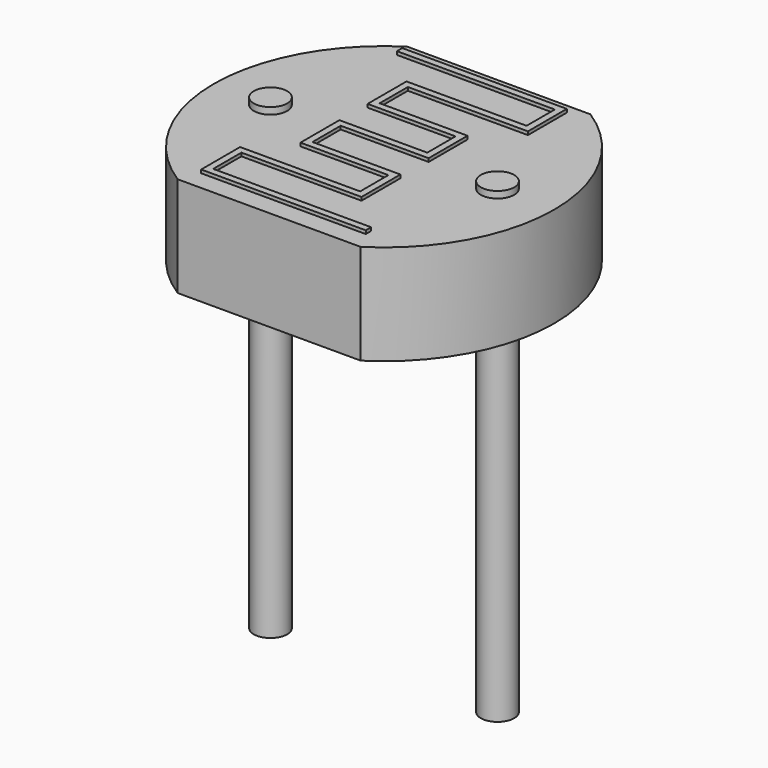
from build123d import *

# Parameters (mm, degrees)
PAD001_DEPTH   = 1.5
SKETCH_R       = 0.25
PAD_DEPTH      = 4
PAD_DEPTH_BACK = 3
PAD002_DEPTH   = 0.05


with BuildPart() as pad001:
    # Sketch001 → Pad001 (new body)
    with BuildSketch(Plane.XY.offset(3.9)):
        with BuildLine():
            ThreePointArc((0.328869, 2.15), (-0.85, 0), (0.328869, -2.15))
            Line((0.328869, -2.15), (3.071131, -2.15))
            ThreePointArc((3.071131, -2.15), (4.25, 0), (3.071131, 2.15))
            Line((0.328869, 2.15), (3.071131, 2.15))
        make_face()
    extrude(amount=-PAD001_DEPTH)


with BuildPart() as pad:
    # Sketch → Pad (new body, two sides)
    with BuildSketch(Plane.XY) as pad_sk:
        Circle(SKETCH_R)
        with Locations((3.4, 0)):
            Circle(SKETCH_R)
    extrude(amount=PAD_DEPTH)
    extrude(pad_sk.sketch, amount=-PAD_DEPTH_BACK)


with BuildPart() as obj1:
    # Sketch002 → Pad002 (new body)
    with BuildSketch(Plane.XY.offset(3.95)):
        Polygon((0.425, 1.835), (2.79, 1.835), (2.79, 1.306667), (0.991667, 1.306667), (0.991667, 1.206667), (0.991667, 0.578333), (1.091667, 0.578333), (2.308333, 0.578333), (2.308333, 0.05), (0.991667, 0.05), (0.991667, -0.05), (0.991667, -0.678333), (1.091667, -0.678333), (2.308333, -0.678333), (2.308333, -1.206667), (0.51, -1.206667), (0.51, -1.306667), (0.51, -1.935), (0.61, -1.935), (2.975, -1.935), (2.975, -1.835), (0.61, -1.835), (0.61, -1.306667), (2.308333, -1.306667), (2.408333, -1.306667), (2.408333, -0.678333), (2.408333, -0.578333), (1.091667, -0.578333), (1.091667, -0.05), (2.308333, -0.05), (2.408333, -0.05), (2.408333, 0.578333), (2.408333, 0.678333), (1.091667, 0.678333), (1.091667, 1.206667), (2.79, 1.206667), (2.89, 1.206667), (2.89, 1.835), (2.89, 1.935), (0.425, 1.935), align=None)
    extrude(amount=PAD002_DEPTH)

    add(pad001.part)
    add(pad.part)


solid = obj1.part
